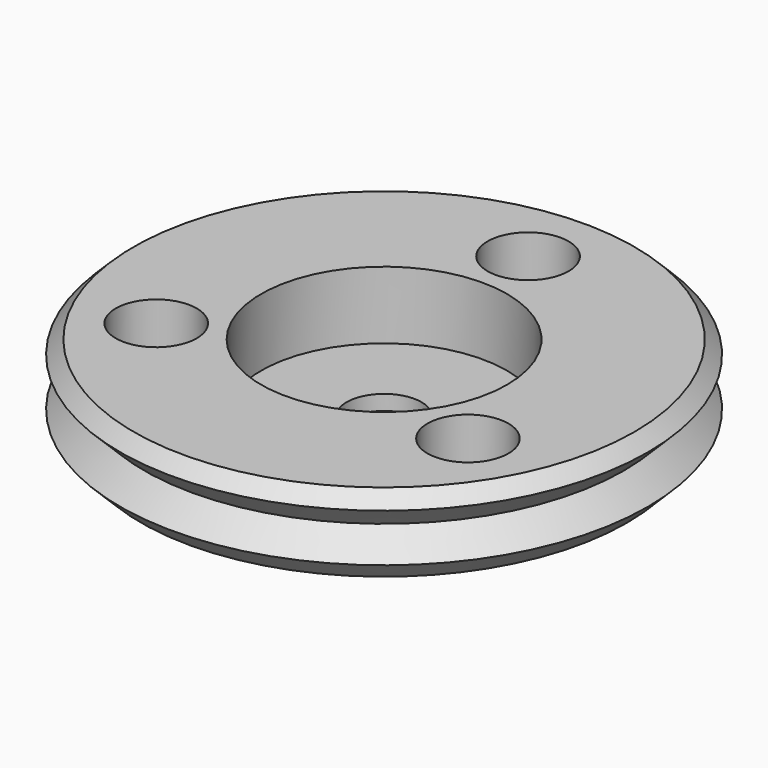
from build123d import *

# Parameters (mm, degrees)
CYLINDER002_R     = 20
CYLINDER002_DEPTH = 20
CYLINDER001_R     = 1.35
CYLINDER001_DEPTH = 10
ARRAY001_COUNT    = 3
CYLINDER_R        = 4.1
CYLINDER_DEPTH    = 2.25
SKETCH002_W       = 5
SKETCH002_H       = 4.7
ARRAY_Z_COUNT     = 6
ARRAY_Z_PITCH     = 1.6


with BuildPart() as clone_of_upperdomain:
    # Cylinder002 → Cylinder002 (new body)
    with BuildSketch(Plane.XY.offset(1.25)):
        Circle(CYLINDER002_R)
    extrude(amount=CYLINDER002_DEPTH)


with BuildPart() as obj1:
    # Cylinder001 → Cylinder001 (new body)
    with BuildSketch(Plane(origin=(0, 6, -4), x_dir=(1, 0, 0), z_dir=(0, 0, 1))):
        Circle(CYLINDER001_R)
    extrude(amount=CYLINDER001_DEPTH)

    # Array001: obj1 ×3 about axis
    array001_axis = Axis((0, 0, 0), (0, 0, 1))


with BuildPart() as obj1_1:
    add(obj1.part)
    for i in range(1, ARRAY001_COUNT):
        add(obj1.part.rotate(array001_axis, i * 360 / ARRAY001_COUNT))


with BuildPart() as lensfit:
    # Cylinder → Cylinder (new body)
    with BuildSketch(Plane.XY.offset(-1)):
        Circle(CYLINDER_R)
    extrude(amount=CYLINDER_DEPTH)


with BuildPart() as obj2:
    # Sketch002 → Revolution002 (revolve)
    with BuildSketch(Plane.XZ):
        with Locations((7.5, 0.85)):
            Rectangle(SKETCH002_W, SKETCH002_H)
    revolve(axis=Axis((0, 0, 0), (0, 0, 1)))


with BuildPart() as innergroovetool:
    # Sketch001 → Revolution001 (revolve)
    with BuildSketch(Plane.XZ):
        Polygon((4, 3.2), (4, 1.6), (8, 1.6), (8.8, 2.4), (8, 3.2), align=None)
    revolve(axis=Axis((0, 0, 0), (0, 0, 1)))

    # Array Z: InnerGrooveTool ×6


with BuildPart() as innergroovetool_1:
    add(innergroovetool.part)
    with Locations(*[(0, 0, -i * ARRAY_Z_PITCH) for i in range(1, ARRAY_Z_COUNT)]):
        add(innergroovetool.part)

    # Common: intersect obj2
    add(obj2.part, mode=Mode.INTERSECT)


with BuildPart() as adaptor:
    # Sketch → Revolution (revolve)
    with BuildSketch(Plane.XZ):
        Polygon((1.25, 4), (1.25, -1.5), (8, -1.5), (8, 3.2), (5, 3.2), (5, 4), align=None)
    revolve(axis=Axis((0, 0, 0), (0, 0, 1)))

    # Fusion001: union InnerGrooveTool
    add(innergroovetool_1.part)

    # Cut: cut LensFit
    add(lensfit.part, mode=Mode.SUBTRACT)

    # Cut001: cut obj1
    add(obj1_1.part, mode=Mode.SUBTRACT)

    # Cut002: cut Clone of UpperDomain
    add(clone_of_upperdomain.part, mode=Mode.SUBTRACT)


solid = adaptor.part
